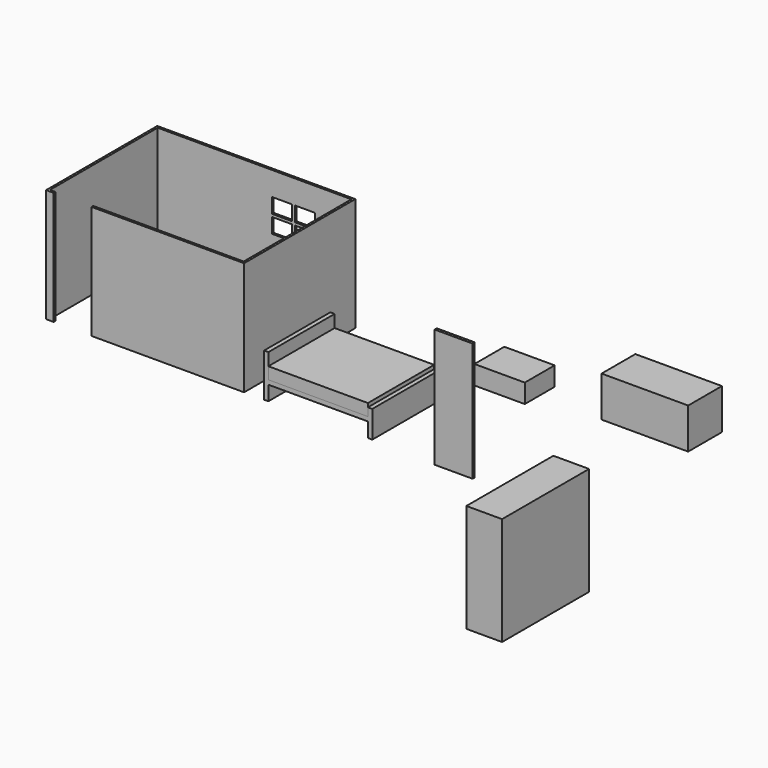
from build123d import *

# Parameters (mm, degrees)
F1_DEPTH  = 2100
F3_DEPTH  = 1530
F4_W      = 700
F4_H      = 2200
F5_DEPTH  = 50
F6_W      = 375
F6_H      = 275
F7_DEPTH  = 100
F8_W      = 660
F8_H      = 2010
F9_DEPTH  = 2000
F10_W     = 1158.402189
F10_H     = 1920.000002
F10_W_2   = 731.597813
F11_DEPTH = 600
F12_W     = 1840
F12_H     = 220
F13_DEPTH = 1530
F14_W     = 930
F14_H     = 690
F15_DEPTH = 350
F16_W     = 1600
F16_H     = 780
F17_DEPTH = 750


with BuildPart() as f1:
    # F0 (on Top) → F1 (new body)
    with BuildSketch(Plane.XY):
        Polygon((39.99995, -2528.99995), (39.99995, -39.99995), (3619.99995, -39.99995), (3619.99995, -2528.99995), (839.99995, -2528.99995), (839.99995, -2568.999901), (3659.999901, -2568.999901), (3659.999901, 0), (0, 0), (0, -2568.999901), (139.99995, -2568.999901), (139.99995, -2528.99995), align=None)
    extrude(amount=F1_DEPTH)

    # F6 (on face) → F7 (cut)
    with BuildSketch(Plane(origin=(0, 0, 0), x_dir=(-1, 0, 0), z_dir=(0, 1, 0))):
        with Locations((-2762.49995, 1523.298931)):
            Rectangle(F6_W, F6_H)
        with Locations((-2337.49995, 1523.298931)):
            Rectangle(F6_W, F6_H)
        with Locations((-2762.49995, 1198.298931)):
            Rectangle(F6_W, F6_H)
        with Locations((-2337.49995, 1198.298931)):
            Rectangle(F6_W, F6_H)
    extrude(amount=-F7_DEPTH, mode=Mode.SUBTRACT)


with BuildPart() as f3:
    # F2 (on face) → F3 (new body)
    with BuildSketch(Plane.XZ.offset(2568.999901)):
        Polygon((4109.049003, 800), (4029.049003, 800), (4029.049003, 0), (4109.049003, 0), (4109.049003, 270), (5949.049003, 270), (5949.049003, 0), (6029.049003, 0), (6029.049003, 500), (5949.049003, 500), (5949.049003, 350), (4109.049003, 350), align=None)
    extrude(amount=-F3_DEPTH)


with BuildPart() as f5:
    # F4 (on face) → F5 (new body)
    with BuildSketch(Plane.XZ.offset(2568.999901)):
        with Locations((7572.520119, 1100)):
            Rectangle(F4_W, F4_H)
    extrude(amount=F5_DEPTH)


with BuildPart() as f9:
    # F8 (on face) → F9 (new body)
    with BuildSketch(Plane(origin=(0, 0, 0), x_dir=(1, 0, 0), z_dir=(0, 0, -1))):
        with Locations((8714.363651, 2333.515091)):
            Rectangle(F8_W, F8_H)
    extrude(amount=F9_DEPTH)

    # F10 (on face) → F11 (cut)
    with BuildSketch(Plane(origin=(8384.363651, 0, 0), x_dir=(0, -1, 0), z_dir=(-1, 0, 0))):
        with Locations((1947.716184, -1000)):
            Rectangle(F10_W, F10_H)
        with Locations((2932.716185, -1000)):
            Rectangle(F10_W_2, F10_H)
    extrude(amount=-F11_DEPTH, mode=Mode.SUBTRACT)


with BuildPart() as f13:
    # F12 (on face) → F13 (new body, through all)
    with BuildSketch(Plane.XZ.offset(2568.999901)):
        with Locations((5029.049003, 460)):
            Rectangle(F12_W, F12_H)
    extrude(amount=-F13_DEPTH)


with BuildPart() as f15:
    # F14 (on face) → F15 (new body)
    with BuildSketch(Plane.XY.offset(570)):
        with Locations((7272.338333, -835.427744)):
            Rectangle(F14_W, F14_H)
    extrude(amount=F15_DEPTH)


with BuildPart() as f17:
    # F16 (on face) → F17 (new body)
    with BuildSketch(Plane.XY.offset(920)):
        with Locations((10127.251396, -1002.525995)):
            Rectangle(F16_W, F16_H)
    extrude(amount=F17_DEPTH)


solid = Compound([f1.part, f3.part, f5.part, f9.part, f13.part, f15.part, f17.part])
